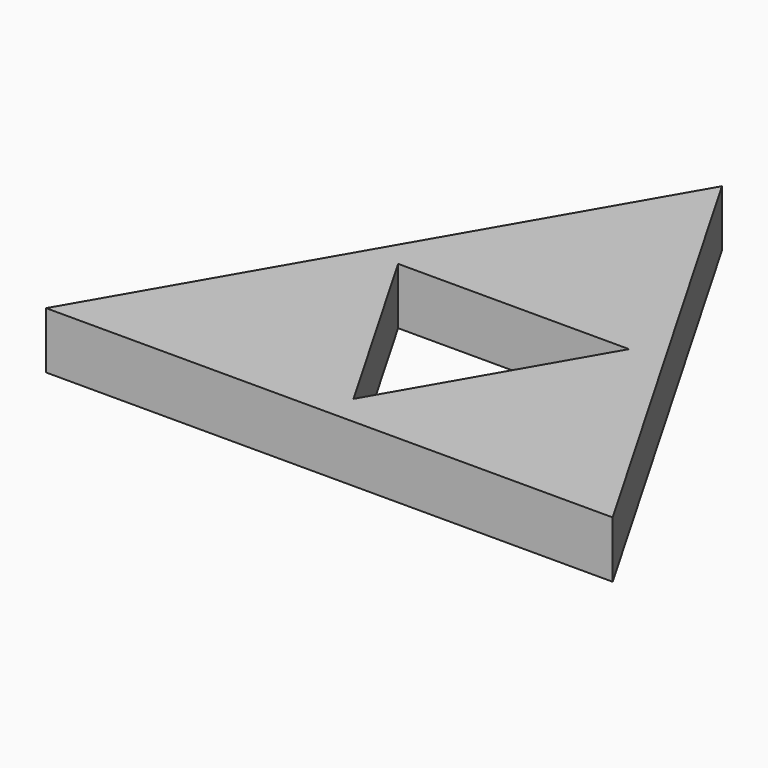
from build123d import *

# Parameters (mm, degrees)
F1_DEPTH = 1.5
F4_DEPTH = 1.5
F5_DEPTH = 1.5


with BuildPart() as f1:
    # F0 (on Top) → F1 (new body)
    with BuildSketch(Plane.XY):
        Polygon((-15, -8.6602540378), (15, -8.6602540378), (0, 17.3205080757), align=None)
    extrude(amount=F1_DEPTH)

    # F3 (on face) → F4 (cut)
    with BuildSketch(Plane.XY.offset(1.5)):
        Polygon((0, -7.0602540378), (6.1143593539, 3.5301270189), (-6.1143593539, 3.5301270189), align=None)
    extrude(amount=-F4_DEPTH, mode=Mode.SUBTRACT)

    # F5 (add): a face of the model
    f5_faces = [f1.faces().sort_by_distance(p)[0] for p in [
        (-7.1563068229, 4.1316956706, 1.5),
    ]]
    extrude(f5_faces, amount=F5_DEPTH)


solid = f1.part
